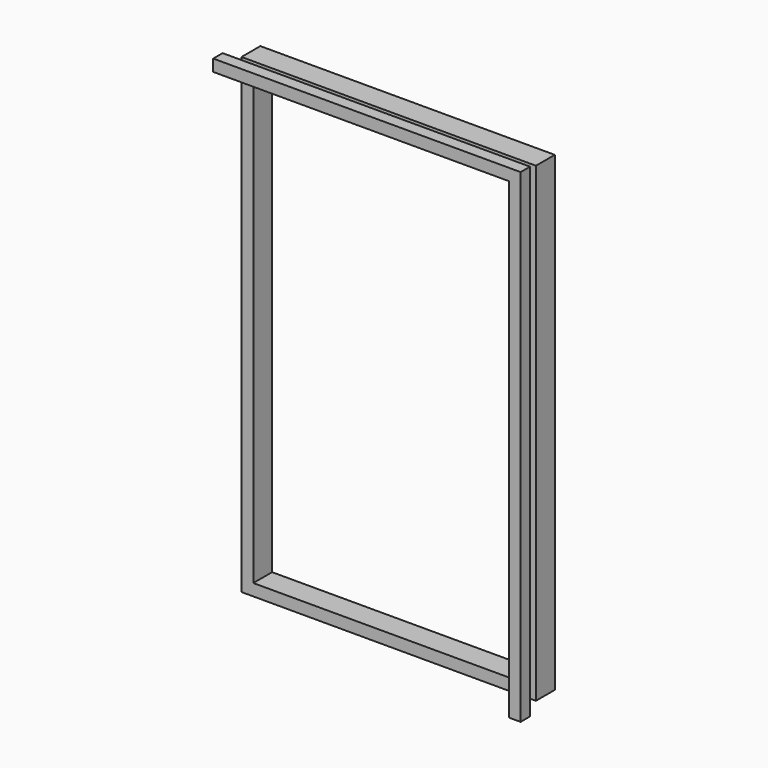
from build123d import *

# Parameters (mm, degrees)
F0_W     = 500
F0_H     = 800
F0_W_2   = 460
F0_H_2   = 760
F1_DEPTH = 40
F4_DEPTH = 20


with BuildPart() as f1:
    # F0 (on Front) → F1 (new body)
    with BuildSketch(Plane.XZ):
        Rectangle(F0_W, F0_H)
        Rectangle(F0_W_2, F0_H_2, mode=Mode.SUBTRACT)
    extrude(amount=F1_DEPTH)


with BuildPart() as f4:
    # F3 (on offset) → F4 (new body)
    with BuildSketch(Plane.XZ.offset(80)):
        Polygon((-250, 402), (252, 402), (252, -400), (272, -400), (272, 422), (-250, 422), align=None)
    extrude(amount=F4_DEPTH)


solid = Compound([f1.part, f4.part])
